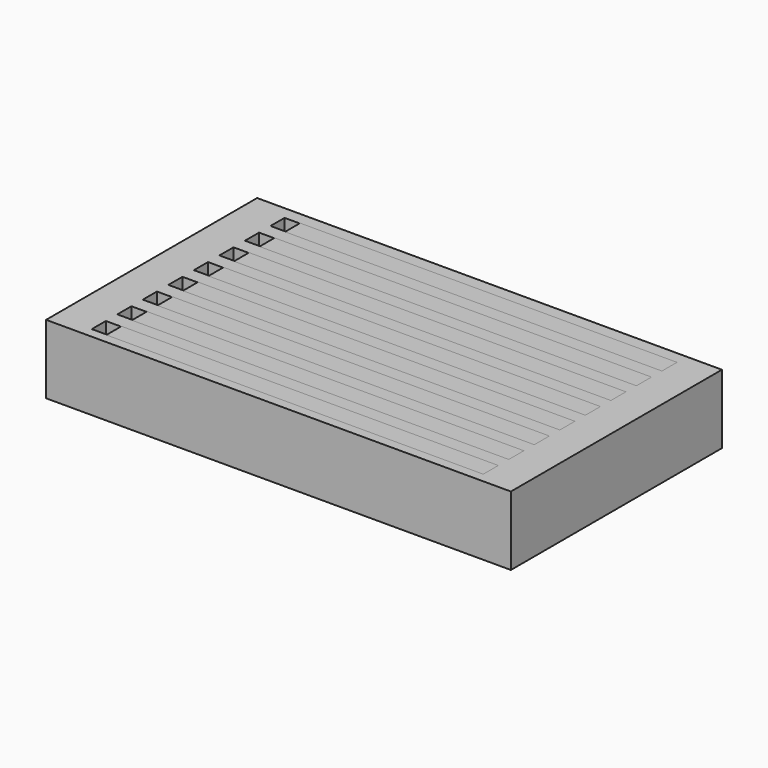
from build123d import *

# Parameters (mm, degrees)
BOX010_W     = 30
BOX010_H     = 1.5
BOX010_DEPTH = 5.5
BOX011_W     = 30
BOX011_H     = 1.5
BOX011_DEPTH = 5.5
BOX012_W     = 30
BOX012_H     = 1.5
BOX012_DEPTH = 5.5
BOX013_W     = 30
BOX013_H     = 1.5
BOX013_DEPTH = 5.5
BOX014_W     = 30
BOX014_H     = 1.5
BOX014_DEPTH = 5.5
BOX015_W     = 30
BOX015_H     = 1.5
BOX015_DEPTH = 5.5
BOX016_W     = 30
BOX016_H     = 1.5
BOX016_DEPTH = 5.5
BOX009_W     = 30
BOX009_H     = 1.5
BOX009_DEPTH = 5.5
BOX018_W     = 30
BOX018_H     = 1.5
BOX018_DEPTH = 5.5
BOX019_W     = 30
BOX019_H     = 1.5
BOX019_DEPTH = 5.5
BOX020_W     = 30
BOX020_H     = 1.5
BOX020_DEPTH = 5.5
BOX021_W     = 30
BOX021_H     = 1.5
BOX021_DEPTH = 5.5
BOX022_W     = 30
BOX022_H     = 1.5
BOX022_DEPTH = 5.5
BOX023_W     = 30
BOX023_H     = 1.5
BOX023_DEPTH = 5.5
BOX024_W     = 30
BOX024_H     = 1.5
BOX024_DEPTH = 5.5
BOX017_W     = 30
BOX017_H     = 1.5
BOX017_DEPTH = 5.5
BOX002_W     = 1.6
BOX002_H     = 1.4
BOX002_DEPTH = 10
BOX003_W     = 1.6
BOX003_H     = 1.4
BOX003_DEPTH = 10
BOX004_W     = 1.6
BOX004_H     = 1.4
BOX004_DEPTH = 10
BOX005_W     = 1.6
BOX005_H     = 1.4
BOX005_DEPTH = 10
BOX006_W     = 1.6
BOX006_H     = 1.4
BOX006_DEPTH = 10
BOX007_W     = 1.6
BOX007_H     = 1.4
BOX007_DEPTH = 10
BOX008_W     = 1.6
BOX008_H     = 1.4
BOX008_DEPTH = 10
BOX001_W     = 1.6
BOX001_H     = 1.4
BOX001_DEPTH = 10
BOX_W        = 37
BOX_H        = 21
BOX_DEPTH    = 5.5


with BuildPart() as cube010:
    # Box010 → Box010 (new body)
    with BuildSketch(Plane(origin=(4.2, 3.29, 0), x_dir=(1, 0, 0), z_dir=(0, 0, 1))):
        with Locations((15, 0.75)):
            Rectangle(BOX010_W, BOX010_H)
    extrude(amount=BOX010_DEPTH)


with BuildPart() as cube011:
    # Box011 → Box011 (new body)
    with BuildSketch(Plane(origin=(4.2, 5.83, 0), x_dir=(1, 0, 0), z_dir=(0, 0, 1))):
        with Locations((15, 0.75)):
            Rectangle(BOX011_W, BOX011_H)
    extrude(amount=BOX011_DEPTH)


with BuildPart() as cube012:
    # Box012 → Box012 (new body)
    with BuildSketch(Plane(origin=(4.2, 8.37, 0), x_dir=(1, 0, 0), z_dir=(0, 0, 1))):
        with Locations((15, 0.75)):
            Rectangle(BOX012_W, BOX012_H)
    extrude(amount=BOX012_DEPTH)


with BuildPart() as cube013:
    # Box013 → Box013 (new body)
    with BuildSketch(Plane(origin=(4.2, 10.91, 0), x_dir=(1, 0, 0), z_dir=(0, 0, 1))):
        with Locations((15, 0.75)):
            Rectangle(BOX013_W, BOX013_H)
    extrude(amount=BOX013_DEPTH)


with BuildPart() as cube014:
    # Box014 → Box014 (new body)
    with BuildSketch(Plane(origin=(4.2, 13.45, 0), x_dir=(1, 0, 0), z_dir=(0, 0, 1))):
        with Locations((15, 0.75)):
            Rectangle(BOX014_W, BOX014_H)
    extrude(amount=BOX014_DEPTH)


with BuildPart() as cube015:
    # Box015 → Box015 (new body)
    with BuildSketch(Plane(origin=(4.2, 15.99, 0), x_dir=(1, 0, 0), z_dir=(0, 0, 1))):
        with Locations((15, 0.75)):
            Rectangle(BOX015_W, BOX015_H)
    extrude(amount=BOX015_DEPTH)


with BuildPart() as cube016:
    # Box016 → Box016 (new body)
    with BuildSketch(Plane(origin=(4.2, 18.53, 0), x_dir=(1, 0, 0), z_dir=(0, 0, 1))):
        with Locations((15, 0.75)):
            Rectangle(BOX016_W, BOX016_H)
    extrude(amount=BOX016_DEPTH)


with BuildPart() as conducting_filament:
    # Box009 → Box009 (new body)
    with BuildSketch(Plane(origin=(4.2, 0.75, 0), x_dir=(1, 0, 0), z_dir=(0, 0, 1))):
        with Locations((15, 0.75)):
            Rectangle(BOX009_W, BOX009_H)
    extrude(amount=BOX009_DEPTH)

    # Fusion: union Cube010, Cube011, Cube012, Cube013, Cube014, Cube015, Cube016
    add(cube010.part)
    add(cube011.part)
    add(cube012.part)
    add(cube013.part)
    add(cube014.part)
    add(cube015.part)
    add(cube016.part)


with BuildPart() as cube018:
    # Box018 → Box018 (new body)
    with BuildSketch(Plane(origin=(4.2, 10.91, 0), x_dir=(1, 0, 0), z_dir=(0, 0, 1))):
        with Locations((15, 0.75)):
            Rectangle(BOX018_W, BOX018_H)
    extrude(amount=BOX018_DEPTH)


with BuildPart() as cube019:
    # Box019 → Box019 (new body)
    with BuildSketch(Plane(origin=(4.2, 3.29, 0), x_dir=(1, 0, 0), z_dir=(0, 0, 1))):
        with Locations((15, 0.75)):
            Rectangle(BOX019_W, BOX019_H)
    extrude(amount=BOX019_DEPTH)


with BuildPart() as cube020:
    # Box020 → Box020 (new body)
    with BuildSketch(Plane(origin=(4.2, 5.83, 0), x_dir=(1, 0, 0), z_dir=(0, 0, 1))):
        with Locations((15, 0.75)):
            Rectangle(BOX020_W, BOX020_H)
    extrude(amount=BOX020_DEPTH)


with BuildPart() as cube021:
    # Box021 → Box021 (new body)
    with BuildSketch(Plane(origin=(4.2, 18.53, 0), x_dir=(1, 0, 0), z_dir=(0, 0, 1))):
        with Locations((15, 0.75)):
            Rectangle(BOX021_W, BOX021_H)
    extrude(amount=BOX021_DEPTH)


with BuildPart() as cube022:
    # Box022 → Box022 (new body)
    with BuildSketch(Plane(origin=(4.2, 15.99, 0), x_dir=(1, 0, 0), z_dir=(0, 0, 1))):
        with Locations((15, 0.75)):
            Rectangle(BOX022_W, BOX022_H)
    extrude(amount=BOX022_DEPTH)


with BuildPart() as cube023:
    # Box023 → Box023 (new body)
    with BuildSketch(Plane(origin=(4.2, 8.37, 0), x_dir=(1, 0, 0), z_dir=(0, 0, 1))):
        with Locations((15, 0.75)):
            Rectangle(BOX023_W, BOX023_H)
    extrude(amount=BOX023_DEPTH)


with BuildPart() as cube024:
    # Box024 → Box024 (new body)
    with BuildSketch(Plane(origin=(4.2, 13.45, 0), x_dir=(1, 0, 0), z_dir=(0, 0, 1))):
        with Locations((15, 0.75)):
            Rectangle(BOX024_W, BOX024_H)
    extrude(amount=BOX024_DEPTH)


with BuildPart() as fusion002:
    # Box017 → Box017 (new body)
    with BuildSketch(Plane(origin=(4.2, 0.75, 0), x_dir=(1, 0, 0), z_dir=(0, 0, 1))):
        with Locations((15, 0.75)):
            Rectangle(BOX017_W, BOX017_H)
    extrude(amount=BOX017_DEPTH)

    # Fusion002: union Cube018, Cube019, Cube020, Cube021, Cube022, Cube023, Cube024
    add(cube018.part)
    add(cube019.part)
    add(cube020.part)
    add(cube021.part)
    add(cube022.part)
    add(cube023.part)
    add(cube024.part)


with BuildPart() as cube002:
    # Box002 → Box002 (new body)
    with BuildSketch(Plane(origin=(3, 3.34, -3), x_dir=(1, 0, 0), z_dir=(0, 0, 1))):
        with Locations((0.8, 0.7)):
            Rectangle(BOX002_W, BOX002_H)
    extrude(amount=BOX002_DEPTH)


with BuildPart() as cube003:
    # Box003 → Box003 (new body)
    with BuildSketch(Plane(origin=(3, 5.88, -3), x_dir=(1, 0, 0), z_dir=(0, 0, 1))):
        with Locations((0.8, 0.7)):
            Rectangle(BOX003_W, BOX003_H)
    extrude(amount=BOX003_DEPTH)


with BuildPart() as cube004:
    # Box004 → Box004 (new body)
    with BuildSketch(Plane(origin=(3, 8.42, -3), x_dir=(1, 0, 0), z_dir=(0, 0, 1))):
        with Locations((0.8, 0.7)):
            Rectangle(BOX004_W, BOX004_H)
    extrude(amount=BOX004_DEPTH)


with BuildPart() as cube005:
    # Box005 → Box005 (new body)
    with BuildSketch(Plane(origin=(3, 10.96, -3), x_dir=(1, 0, 0), z_dir=(0, 0, 1))):
        with Locations((0.8, 0.7)):
            Rectangle(BOX005_W, BOX005_H)
    extrude(amount=BOX005_DEPTH)


with BuildPart() as cube006:
    # Box006 → Box006 (new body)
    with BuildSketch(Plane(origin=(3, 13.5, -3), x_dir=(1, 0, 0), z_dir=(0, 0, 1))):
        with Locations((0.8, 0.7)):
            Rectangle(BOX006_W, BOX006_H)
    extrude(amount=BOX006_DEPTH)


with BuildPart() as cube007:
    # Box007 → Box007 (new body)
    with BuildSketch(Plane(origin=(3, 16.04, -3), x_dir=(1, 0, 0), z_dir=(0, 0, 1))):
        with Locations((0.8, 0.7)):
            Rectangle(BOX007_W, BOX007_H)
    extrude(amount=BOX007_DEPTH)


with BuildPart() as cube008:
    # Box008 → Box008 (new body)
    with BuildSketch(Plane(origin=(3, 18.58, -3), x_dir=(1, 0, 0), z_dir=(0, 0, 1))):
        with Locations((0.8, 0.7)):
            Rectangle(BOX008_W, BOX008_H)
    extrude(amount=BOX008_DEPTH)


with BuildPart() as fusion001:
    # Box001 → Box001 (new body)
    with BuildSketch(Plane(origin=(3, 0.8, -3), x_dir=(1, 0, 0), z_dir=(0, 0, 1))):
        with Locations((0.8, 0.7)):
            Rectangle(BOX001_W, BOX001_H)
    extrude(amount=BOX001_DEPTH)

    # Fusion001: union Cube002, Cube003, Cube004, Cube005, Cube006, Cube007, Cube008
    add(cube002.part)
    add(cube003.part)
    add(cube004.part)
    add(cube005.part)
    add(cube006.part)
    add(cube007.part)
    add(cube008.part)


with BuildPart() as main_body:
    # Box → Box (new body)
    with BuildSketch(Plane.XY):
        with Locations((18.5, 10.5)):
            Rectangle(BOX_W, BOX_H)
    extrude(amount=BOX_DEPTH)

    # Cut: cut Fusion001
    add(fusion001.part, mode=Mode.SUBTRACT)

    # Cut001: cut Fusion002
    add(fusion002.part, mode=Mode.SUBTRACT)


solid = Compound([conducting_filament.part, main_body.part])
